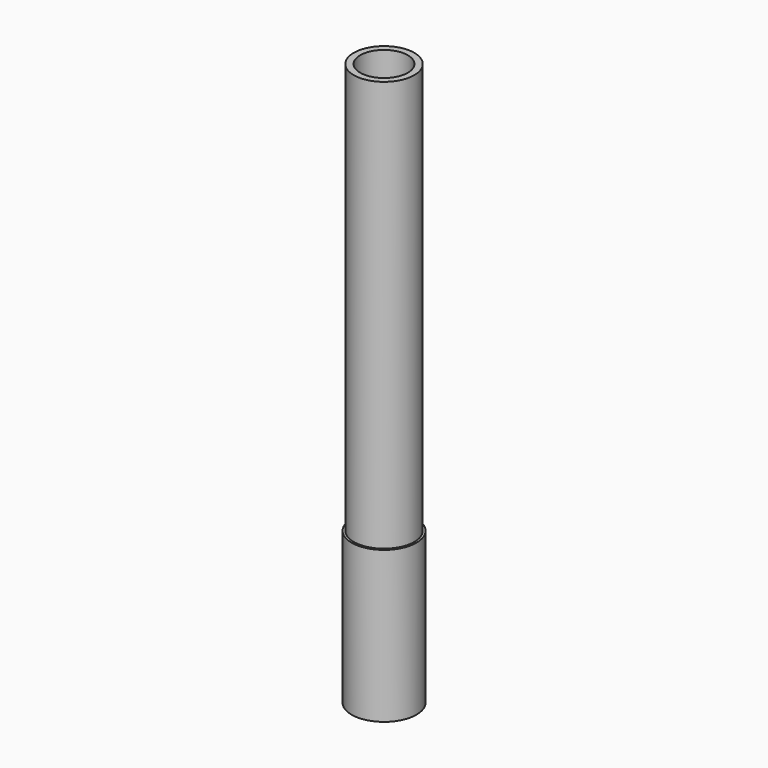
from build123d import *

# Parameters (mm, degrees)
SKETCH_R      = 15
SKETCH_R_2    = 11
PAD_DEPTH     = 260
SKETCH001_R   = 15
SKETCH001_R_2 = 14
POCKET_DEPTH  = 190


with BuildPart() as part:
    # Sketch → Pad (new body)
    with BuildSketch(Plane.XY):
        Circle(SKETCH_R)
        Circle(SKETCH_R_2, mode=Mode.SUBTRACT)
    extrude(amount=PAD_DEPTH)

    # Sketch001 → Pocket (cut)
    with BuildSketch(Plane.XY.offset(260)):
        Circle(SKETCH001_R)
        Circle(SKETCH001_R_2, mode=Mode.SUBTRACT)
    extrude(amount=-POCKET_DEPTH, mode=Mode.SUBTRACT)


solid = part.part
